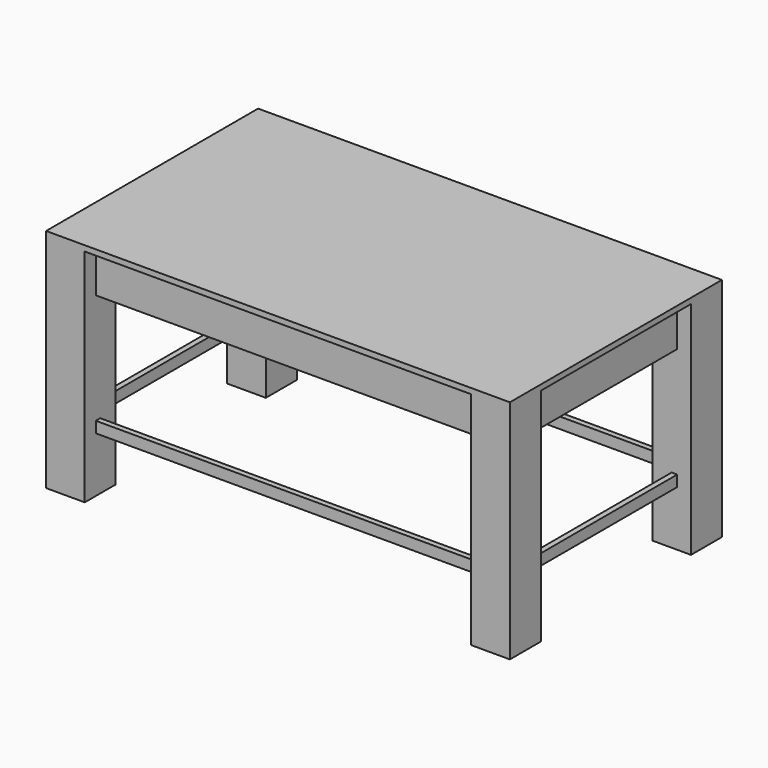
from build123d import *

# Parameters (mm, degrees)
F1_DEPTH      = 12.7
F0_W          = 88.9
F0_H          = 88.9
F2_DEPTH      = 12.7
F2_DEPTH_BACK = 508
F3_W          = 889
F3_H          = 12.7
F3_W_2        = 12.7
F3_H_2        = 431.8
F4_DEPTH      = 101.6
F6_W          = 889
F6_H          = 12.7
F6_W_2        = 12.7
F6_H_2        = 431.8
F7_DEPTH      = 25.4


with BuildPart() as f1:
    # F0 (on Top) → F1 (new body)
    with BuildSketch(Plane.XY):
        Polygon((444.5, 304.8), (-444.5, 304.8), (-444.5, 215.9), (-533.4, 215.9), (-533.4, -215.9), (-444.5, -215.9), (-444.5, -304.8), (444.5, -304.8), (444.5, -215.9), (533.4, -215.9), (533.4, 215.9), (444.5, 215.9), align=None)
    extrude(amount=F1_DEPTH)

    # F0 (on Top) → F2 (join, two sides)
    with BuildSketch(Plane.XY) as f2_sk:
        with Locations((-488.95, 260.35)):
            Rectangle(F0_W, F0_H)
        with Locations((-488.95, -260.35)):
            Rectangle(F0_W, F0_H)
        with Locations((488.95, 260.35)):
            Rectangle(F0_W, F0_H)
        with Locations((488.95, -260.35)):
            Rectangle(F0_W, F0_H)
    extrude(amount=F2_DEPTH)
    extrude(f2_sk.sketch, amount=-F2_DEPTH_BACK)

    # F3 (on face) → F4 (join)
    with BuildSketch(Plane(origin=(0, 0, 0), x_dir=(1, 0, 0), z_dir=(0, 0, -1))):
        with Locations((0, 266.7)):
            Rectangle(F3_W, F3_H)
        with Locations((-495.3, 0)):
            Rectangle(F3_W_2, F3_H_2)
        with Locations((0, -266.7)):
            Rectangle(F3_W, F3_H)
        with Locations((495.3, 0)):
            Rectangle(F3_W_2, F3_H_2)
    extrude(amount=F4_DEPTH)

    # F6 (on offset) → F7 (join)
    with BuildSketch(Plane(origin=(0, 0, -355.6), x_dir=(1, 0, 0), z_dir=(0, 0, -1))):
        with Locations((0, 266.7)):
            Rectangle(F6_W, F6_H)
        with Locations((0, -266.7)):
            Rectangle(F6_W, F6_H)
        with Locations((-495.3, 0)):
            Rectangle(F6_W_2, F6_H_2)
        with Locations((495.3, 0)):
            Rectangle(F6_W_2, F6_H_2)
    extrude(amount=F7_DEPTH)


solid = f1.part
